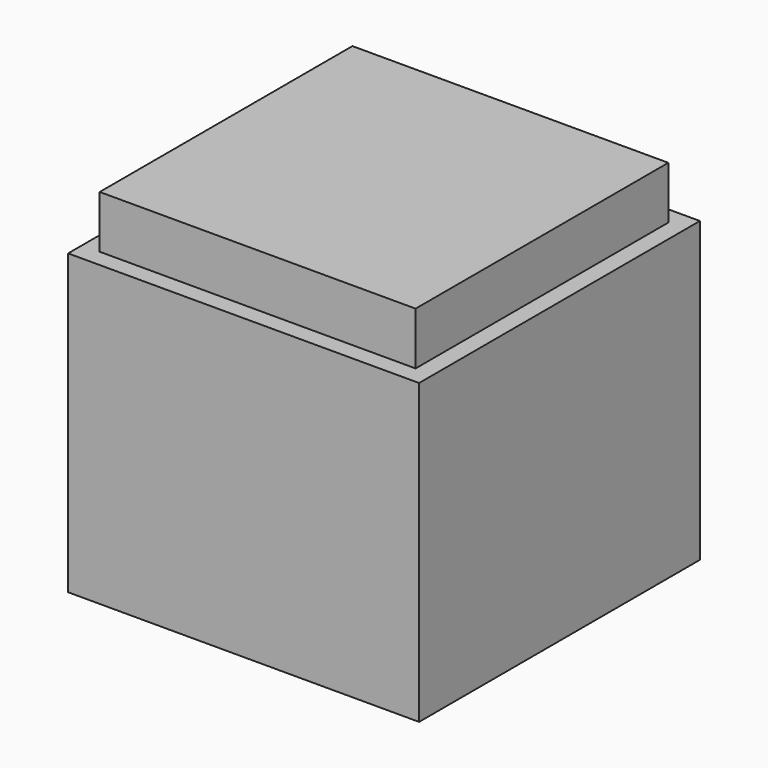
from build123d import *

# Parameters (mm, degrees)
F0_W     = 1000
F0_H     = 1000
F1_DEPTH = 1000
F2_W     = 1000
F2_H     = 1000
F2_W_2   = 900
F2_H_2   = 900
F3_DEPTH = 150


with BuildPart() as f1:
    # F0 (on Top) → F1 (new body)
    with BuildSketch(Plane.XY):
        Rectangle(F0_W, F0_H)
    extrude(amount=-F1_DEPTH)

    # F2 (on face) → F3 (cut)
    with BuildSketch(Plane.XY):
        Rectangle(F2_W, F2_H)
        Rectangle(F2_W_2, F2_H_2, mode=Mode.SUBTRACT)
    extrude(amount=-F3_DEPTH, mode=Mode.SUBTRACT)


solid = f1.part
